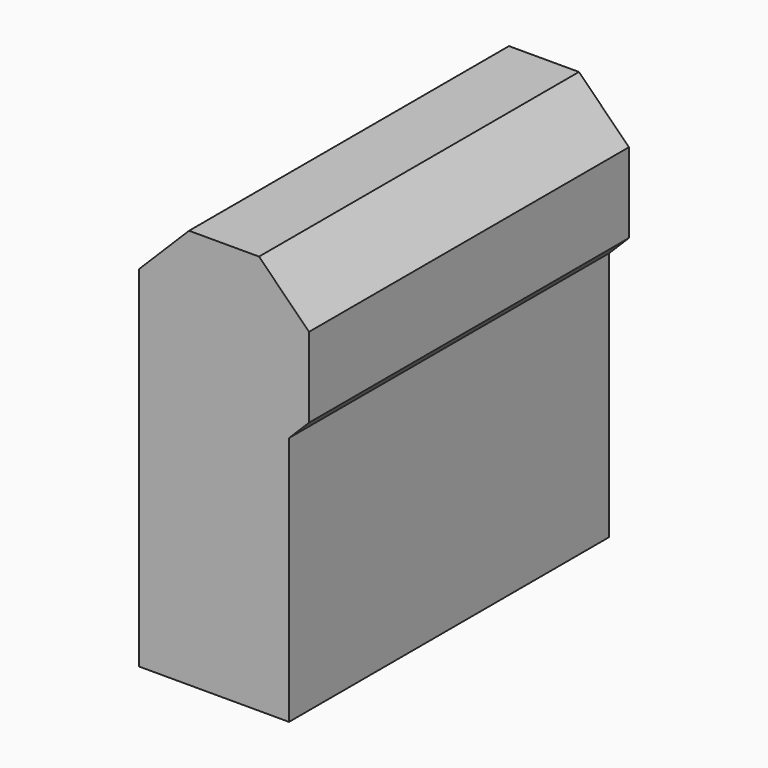
from build123d import *

# Parameters (mm, degrees)
BOX014_W           = 3
BOX014_H           = 8
BOX014_DEPTH       = 5
BOX016_W           = 3.4
BOX016_H           = 8
BOX016_DEPTH       = 3
CHAMFER009008_SIZE = 0.4
CHAMFER009011_SIZE = 1


with BuildPart() as cube014:
    # Box014 → Box014 (new body)
    with BuildSketch(Plane(origin=(5.2, -4, 0), x_dir=(1, 0, 0), z_dir=(0, 0, 1))):
        with Locations((1.5, 4)):
            Rectangle(BOX014_W, BOX014_H)
    extrude(amount=BOX014_DEPTH)


with BuildPart() as fusion005:
    # Box016 → Box016 (new body)
    with BuildSketch(Plane(origin=(5.2, -4, 5), x_dir=(1, 0, 0), z_dir=(0, 0, 1))):
        with Locations((1.7, 4)):
            Rectangle(BOX016_W, BOX016_H)
    extrude(amount=BOX016_DEPTH)

    # Chamfer009008
    chamfer009008_edges = [fusion005.edges().sort_by_distance(p)[0] for p in [
        (8.6, 0, 5),
    ]]
    chamfer(chamfer009008_edges, length=CHAMFER009008_SIZE)

    # Chamfer009011
    chamfer009011_edges = [fusion005.edges().sort_by_distance(p)[0] for p in [
        (8.6, 0, 8),
        (5.2, 0, 8),
    ]]
    chamfer(chamfer009011_edges, length=CHAMFER009011_SIZE)

    # Fusion005: union Cube014
    add(cube014.part)


solid = fusion005.part
